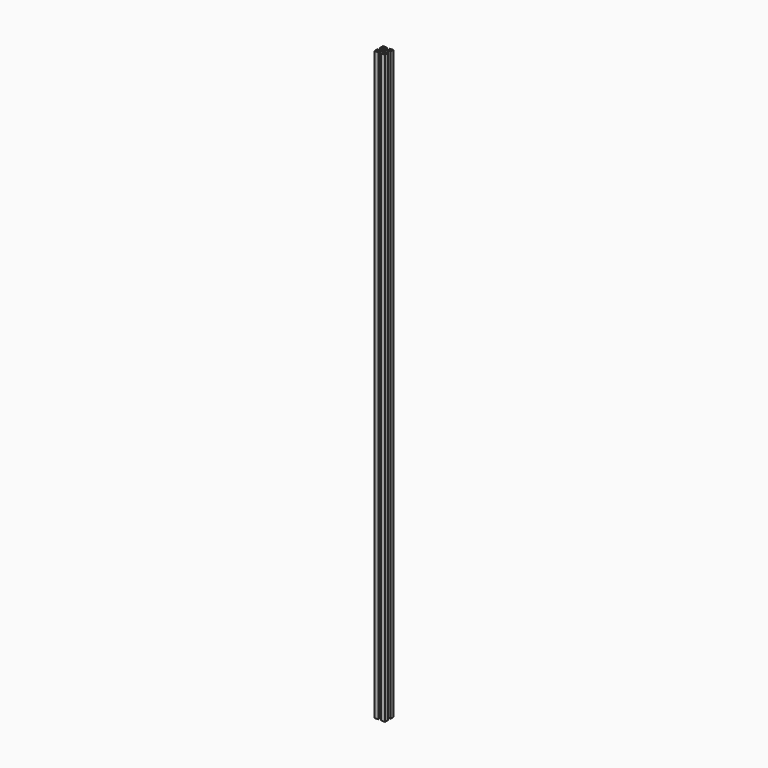
from build123d import *

# Parameters (mm, degrees)
F0_R     = 2
F0_R_2   = 2.15
F1_DEPTH = 1110


with BuildPart() as f1:
    # F0 (on Top) → F1 (new body)
    with BuildSketch(Plane.XY):
        with BuildLine():
            Line((-10, 10), (-10, 2.65))
            Line((-10, 2.65), (-8.5, 2.65))
            Line((-8.5, 2.65), (-8.5, 4.15))
            Line((-8.5, 4.15), (-4.552801, 4.15))
            ThreePointArc((-4.552801, 4.15), (-3.3, 0), (-4.552801, -4.15))
            Line((-4.552801, -4.15), (-8.5, -4.15))
            Line((-8.5, -4.15), (-8.5, -2.65))
            Line((-8.5, -2.65), (-10, -2.65))
            Line((-10, -2.65), (-10, -10))
            Line((-10, -10), (-2.65, -10))
            Line((-2.65, -10), (-2.65, -8.5))
            Line((-2.65, -8.5), (-4.15, -8.5))
            Line((-4.15, -8.5), (-4.15, -4.552801))
            ThreePointArc((-4.15, -4.552801), (0, -3.3), (4.15, -4.552801))
            Line((4.15, -4.552801), (4.15, -8.5))
            Line((4.15, -8.5), (2.65, -8.5))
            Line((2.65, -8.5), (2.65, -10))
            Line((2.65, -10), (10, -10))
            Line((10, -10), (10, -2.65))
            Line((10, -2.65), (8.5, -2.65))
            Line((8.5, -2.65), (8.5, -4.15))
            Line((8.5, -4.15), (4.552801, -4.15))
            ThreePointArc((4.552801, -4.15), (3.3, 0), (4.552801, 4.15))
            Line((4.552801, 4.15), (8.5, 4.15))
            Line((8.5, 4.15), (8.5, 2.65))
            Line((8.5, 2.65), (10, 2.65))
            Line((10, 2.65), (10, 10))
            Line((10, 10), (2.65, 10))
            Line((2.65, 10), (2.65, 8.5))
            Line((2.65, 8.5), (4.15, 8.5))
            Line((4.15, 8.5), (4.15, 4.552801))
            ThreePointArc((4.15, 4.552801), (0, 3.3), (-4.15, 4.552801))
            Line((-4.15, 4.552801), (-4.15, 8.5))
            Line((-4.15, 8.5), (-2.65, 8.5))
            Line((-2.65, 8.5), (-2.65, 10))
            Line((-2.65, 10), (-10, 10))
        make_face()
        with Locations((-7, -7)):
            Circle(F0_R, mode=Mode.SUBTRACT)
        with Locations((7, -7)):
            Circle(F0_R, mode=Mode.SUBTRACT)
        with Locations((-7, 7)):
            Circle(F0_R, mode=Mode.SUBTRACT)
        Circle(F0_R_2, mode=Mode.SUBTRACT)
        with Locations((7, 7)):
            Circle(F0_R, mode=Mode.SUBTRACT)
    extrude(amount=F1_DEPTH)


solid = f1.part
